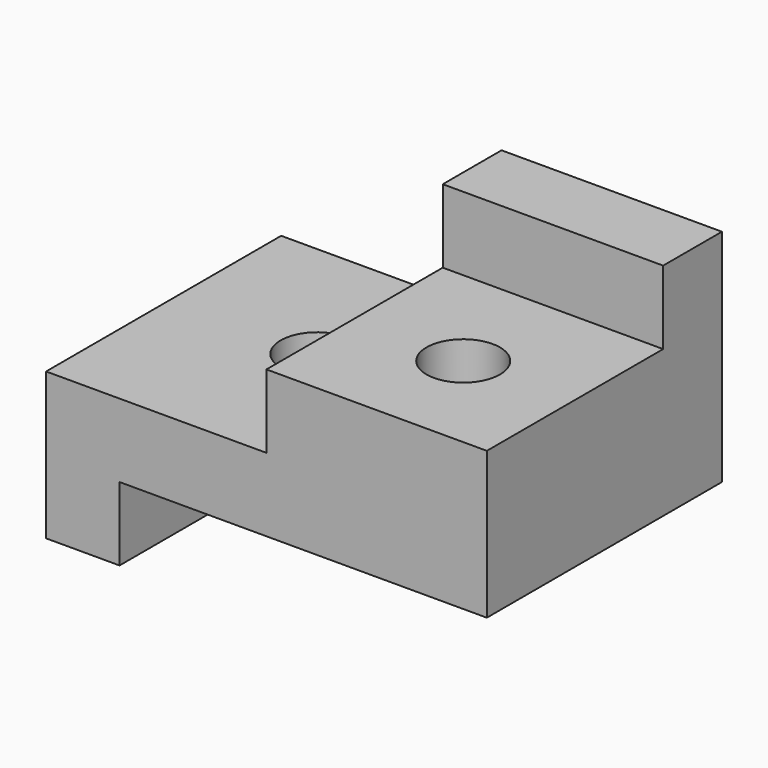
from build123d import *

# Parameters (mm, degrees)
F0_W     = 38.1
F0_H     = 25.4
F1_DEPTH = 25.4
F2_W     = 31.75
F2_H     = 6.35
F2_W_2   = 19.05
F2_H_2   = 12.7
F3_DEPTH = 25.401
F4_W     = 19.05
F4_H     = 6.35
F5_DEPTH = 38.101
F6_R     = 3.175
F7_DEPTH = 25.401


with BuildPart() as f1:
    # F0 (on Front) → F1 (new body)
    with BuildSketch(Plane.XZ):
        with Locations((19.05, 12.7)):
            Rectangle(F0_W, F0_H)
    extrude(amount=F1_DEPTH)

    # F2 (on face) → F3 (cut, through all)
    with BuildSketch(Plane.XZ.offset(25.4)):
        with Locations((22.225, 3.175)):
            Rectangle(F2_W, F2_H)
        with Locations((9.525, 19.05)):
            Rectangle(F2_W_2, F2_H_2)
    extrude(amount=-F3_DEPTH, mode=Mode.SUBTRACT)

    # F4 (on face) → F5 (cut, through all)
    with BuildSketch(Plane.YZ.offset(38.1)):
        with Locations((-15.875, 22.225)):
            Rectangle(F4_W, F4_H)
    extrude(amount=-F5_DEPTH, mode=Mode.SUBTRACT)

    # F6 (on Top) → F7 (cut, through all)
    with BuildSketch(Plane.XY):
        with Locations((12.7, -11.963086)):
            Circle(F6_R)
        with Locations((28.645556, -16.133703)):
            Circle(F6_R)
    extrude(amount=F7_DEPTH, mode=Mode.SUBTRACT)


solid = f1.part
